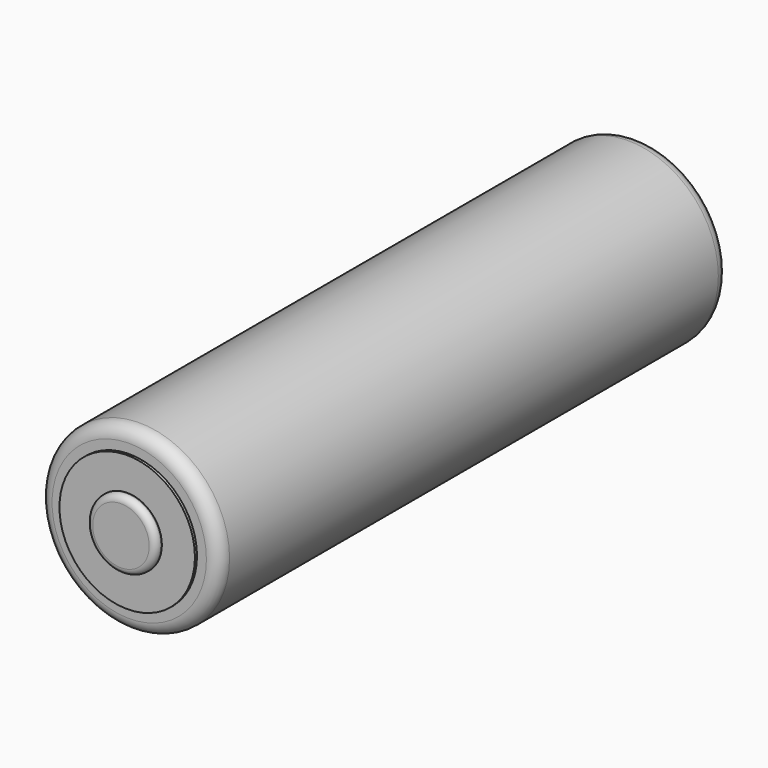
from build123d import *

# Parameters (mm, degrees)
F0_R     = 7
F1_DEPTH = 49.5
F2_R     = 5.26825
F3_DEPTH = 0.2
F4_R     = 1
F5_R     = 2.695351
F6_DEPTH = 0.6
F7_R     = 0.5
F8_R     = 4.733808
F9_DEPTH = 0.1


with BuildPart() as f1:
    # F0 (on Front) → F1 (new body)
    with BuildSketch(Plane.XZ):
        Circle(F0_R)
    extrude(amount=F1_DEPTH)

    # F4
    f4_edges = [f1.edges().sort_by_distance(p)[0] for p in [
        (-7, -49.5, 0),
        (-7, 0, 0),
    ]]
    fillet(f4_edges, radius=F4_R)


with BuildPart() as f3:
    # F2 (on face) → F3 (new body)
    with BuildSketch(Plane.XZ.offset(49.5)):
        Circle(F2_R)
    extrude(amount=F3_DEPTH)

    # F5 (on face) → F6 (join)
    with BuildSketch(Plane.XZ.offset(49.7)):
        Circle(F5_R)
    extrude(amount=F6_DEPTH)

    # F7
    f7_edges = [f3.edges().sort_by_distance(p)[0] for p in [
        (-2.695351, -50.3, 0),
    ]]
    fillet(f7_edges, radius=F7_R)


with BuildPart() as f9:
    # F8 (on face) → F9 (new body)
    with BuildSketch(Plane(origin=(0, 0, 0), x_dir=(-1, 0, 0), z_dir=(0, 1, 0))):
        Circle(F8_R)
    extrude(amount=F9_DEPTH)


solid = Compound([f1.part, f3.part, f9.part])
